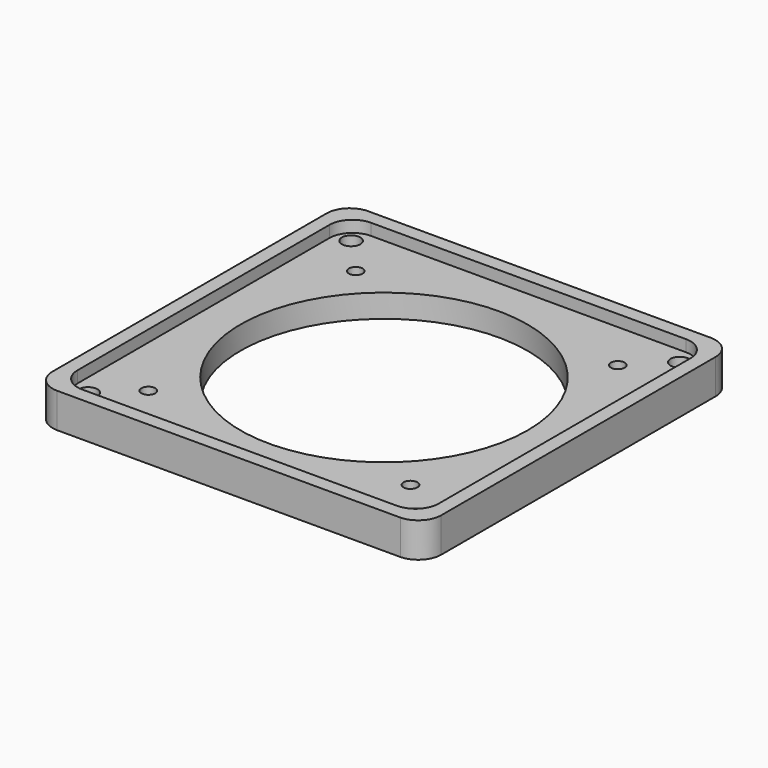
from build123d import *

# Parameters (mm, degrees)
EXTRUDE002_DEPTH = 9
SKETCH009_R      = 1.5
SKETCH009_R_2    = 31
SKETCH009_R_3    = 2
EXTRUDE001_DEPTH = 7.5


with BuildPart() as extrude002:
    # Sketch010 → Extrude002 (new body)
    with BuildSketch(Plane.XY):
        with BuildLine():
            Line((-34, 39), (34, 39))
            ThreePointArc((39, 34), (37.535534, 37.535534), (34, 39))
            Line((39, 34), (39, -34))
            ThreePointArc((34, -39), (37.535534, -37.535534), (39, -34))
            Line((34, -39), (-34, -39))
            ThreePointArc((-39, -34), (-37.535534, -37.535534), (-34, -39))
            Line((-39, -34), (-39, 34))
            ThreePointArc((-34, 39), (-37.535534, 37.535534), (-39, 34))
        make_face()
    extrude(amount=EXTRUDE002_DEPTH)


with BuildPart() as extrude002_1:
    # Extrude002 placement: moved
    add(extrude002.part.moved(Location((0, 0, 5))))


with BuildPart() as frontplate:
    # Sketch009 → Extrude001 (new body)
    with BuildSketch(Plane.XY):
        with BuildLine():
            Line((-37, 42), (37, 42))
            ThreePointArc((42, 37), (40.535534, 40.535534), (37, 42))
            Line((42, 37), (42, -37.141721))
            ThreePointArc((37.172983, -42), (40.548854, -40.527031), (42, -37.141721))
            Line((37.172983, -42), (-37, -42))
            ThreePointArc((-42, -37), (-40.535534, -40.535534), (-37, -42))
            Line((-42, -37), (-42, 37))
            ThreePointArc((-37, 42), (-40.535534, 40.535534), (-42, 37))
        make_face()
        with Locations((-28, 27.370892)):
            Circle(SKETCH009_R, mode=Mode.SUBTRACT)
        with Locations((28, 28.147012)):
            Circle(SKETCH009_R, mode=Mode.SUBTRACT)
        with Locations((28, -27.852988)):
            Circle(SKETCH009_R, mode=Mode.SUBTRACT)
        with Locations((-28, -28.629108)):
            Circle(SKETCH009_R, mode=Mode.SUBTRACT)
        Circle(SKETCH009_R_2, mode=Mode.SUBTRACT)
        with Locations((35.5, -35.5)):
            Circle(SKETCH009_R_3, mode=Mode.SUBTRACT)
        with Locations((-35.5, -35.5)):
            Circle(SKETCH009_R_3, mode=Mode.SUBTRACT)
        with Locations((-35.5, 35.5)):
            Circle(SKETCH009_R_3, mode=Mode.SUBTRACT)
        with Locations((35.5, 35.5)):
            Circle(SKETCH009_R_3, mode=Mode.SUBTRACT)
    extrude(amount=EXTRUDE001_DEPTH)

    # Cut028: cut Extrude002
    add(extrude002_1.part, mode=Mode.SUBTRACT)


with BuildPart() as frontplate_1:
    # Cut028 placement: moved
    add(frontplate.part.moved(Location((0, 0, 67))))


solid = frontplate_1.part
